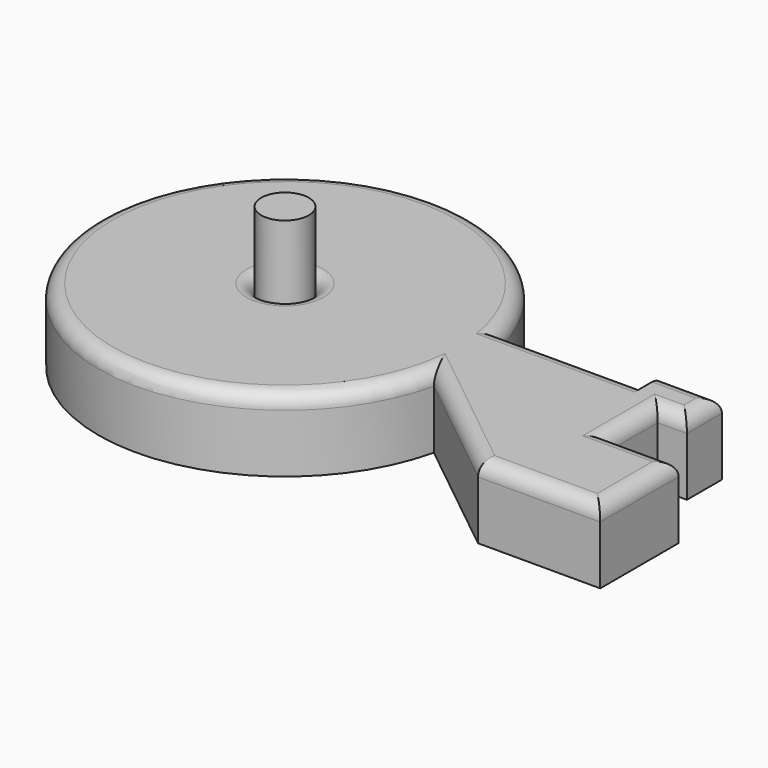
from build123d import *

# Parameters (mm, degrees)
F0_R     = 8.153451715
F0_W     = 10
F0_H     = 7.5
F1_DEPTH = 25
F2_DEPTH = 48.2
F3_R     = 5


with BuildPart() as f1:
    # F0 (on Top) → F1 (new body)
    with BuildSketch(Plane.XY):
        with BuildLine():
            ThreePointArc((-30, 14.2241413077), (-156.3993093236, 0), (-30, -14.2241413077))
            Line((-30, -14.2241413077), (-30, 14.2241413077))
        make_face()
        with Locations((-92.3993093236, 0)):
            Circle(F0_R, mode=Mode.SUBTRACT)
        Polygon((-30, -14.2241413077), (30, -14.2241413077), (30, 6.7241413077), (20, 6.7241413077), (20, 14.2241413077), (4.5457084796, 14.2241413077), (-30, 14.2241413077), align=None)
        Polygon((53.9515970054, -14.2241413077), (30, -14.2241413077), (-30, -14.2241413077), (12.0598031208, -47.8646345437), (53.9515970054, -47.8646345437), align=None)
        Polygon((30, 14.2241413077), (30, 6.7241413077), (40, 6.7241413077), (40, 21.7241413077), (20, 21.7241413077), (20, 14.2241413077), align=None)
        with Locations((25, 10.4741413077)):
            Rectangle(F0_W, F0_H)
    extrude(amount=F1_DEPTH)

    # F3
    f3_edges = [f1.edges().sort_by_distance(p)[0] for p in [
        (-8.970098, -31.044388, 25),
        (33.0057, -47.864635, 25),
        (41.975799, -14.224141, 25),
        (53.951597, -31.044388, 25),
        (-156.399309, 0, 25),
        (30, -3.75, 25),
        (35, 6.724141, 25),
        (30, 21.724141, 25),
        (40, 14.224141, 25),
        (-5, 14.224141, 25),
        (-100.552761, 0, 25),
    ]]
    fillet(f3_edges, radius=F3_R)


with BuildPart() as f2:
    # F0 (on Top) → F2 (new body)
    with BuildSketch(Plane.XY):
        with Locations((-92.3993093236, 0)):
            Circle(F0_R)
    extrude(amount=F2_DEPTH)


solid = Compound([f1.part, f2.part])
